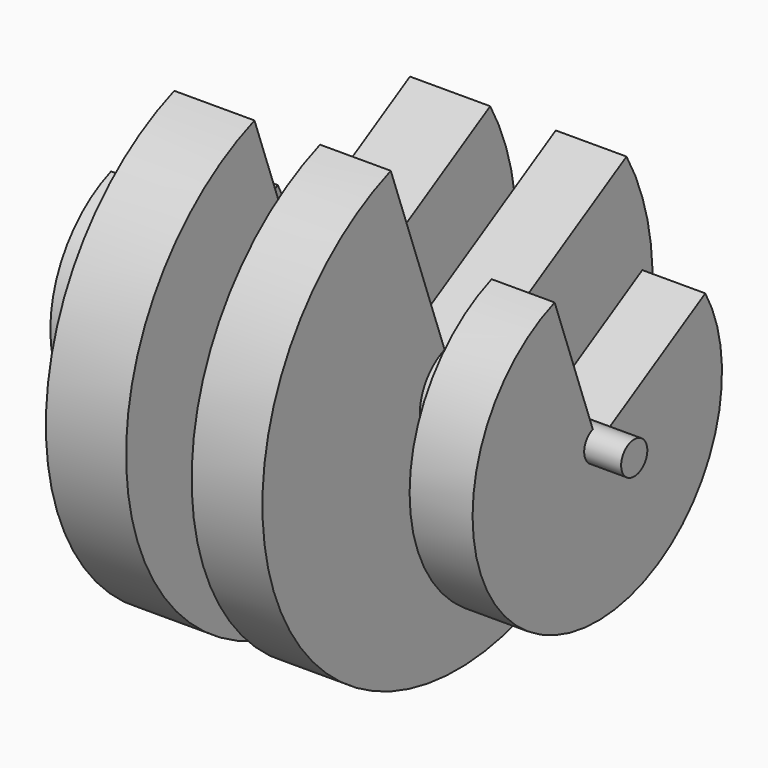
from build123d import *

# Parameters (mm, degrees)
F2_ANGLE_START = 20
F2_ANGLE       = 280


with BuildPart() as f1:
    # F0 (on Front) → F1 (revolve)
    with BuildSketch(Plane.XZ):
        Polygon((-102.1556183696, 11.6483550519), (-116.0176545382, 11.6483550519), (-116.0176545382, 4.1934056208), (121.6088682413, 4.1934056208), (121.6088682413, 11.6483550519), (104.7888696194, 11.6483550519), align=None)
    revolve(axis=Axis((2.7956068516, 0, 4.1934056208), (1, 0, 0)))


with BuildPart() as f2:
    # F0 (on Front) → F2 (revolve)
    with BuildSketch(Plane.XZ, mode=Mode.PRIVATE) as f2_sk:
        Polygon((-102.1556183696, 56.6928498447), (-102.1556183696, 11.6483550519), (104.7888696194, 11.6483550519), (104.7888696194, 75.148999691), (76.1229395866, 75.148999691), (76.1229395866, 25.6708096713), (41.1740578711, 25.6708096713), (41.1740578711, 115.2027696371), (8.973967284, 115.2027696371), (8.973967284, 26.4561772346), (-20.8700187504, 26.4561772346), (-20.8700187504, 115.2027696371), (-57.3896355927, 115.2027696371), (-57.3896355927, 26.4561772346), (-77.0238339901, 26.4561772346), (-77.0238339901, 56.6928498447), align=None)
    revolve(f2_sk.sketch.rotate(Axis((-102.1556183696, 0, 4.1934056208), (1, 0, 0)), F2_ANGLE_START), axis=Axis((-102.1556183696, 0, 4.1934056208), (1, 0, 0)), revolution_arc=F2_ANGLE)


solid = Compound([f1.part, f2.part])
